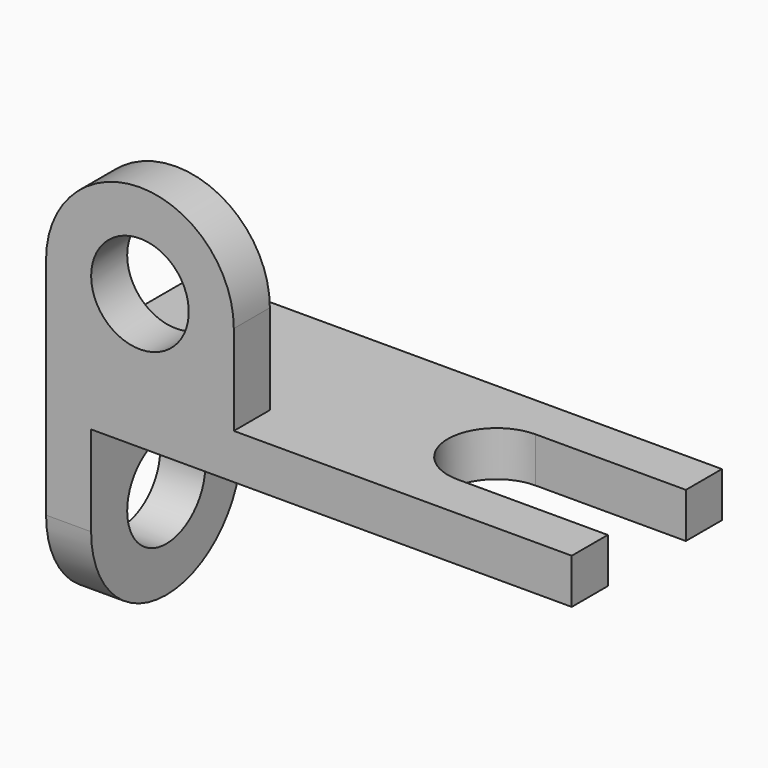
from build123d import *

# Parameters (mm, degrees)
F1_DEPTH = 6
F3_DEPTH = 6
F4_W     = 25
F4_H     = 12
F5_DEPTH = 6
F6_D     = 13


with BuildPart() as f1:
    # F0 (on Top) → F1 (new body)
    with BuildSketch(Plane.XY):
        with BuildLine():
            Line((-32, -12.5), (32, -12.5))
            Line((32, -12.5), (32, -6.5))
            Line((32, -6.5), (12, -6.5))
            ThreePointArc((12, -6.5), (5.5, 0), (12, 6.5))
            Line((12, 6.5), (32, 6.5))
            Line((32, 6.5), (32, 12.5))
            Line((32, 12.5), (-32, 12.5))
            Line((-32, 12.5), (-32, -12.5))
        make_face()
    extrude(amount=F1_DEPTH)

    # F2 (on face) → F3 (join)
    with BuildSketch(Plane(origin=(-32, 0, 0), x_dir=(0, -1, 0), z_dir=(-1, 0, 0))):
        with BuildLine():
            Line((12.5, 6), (-12.5, 6))
            Line((-12.5, 6), (-12.5, -12))
            ThreePointArc((-12.5, -12), (0, 0.5), (12.5, -12))
            Line((12.5, -12), (12.5, 6))
        make_face()
        with BuildLine():
            ThreePointArc((12.5, -12), (0, 0.5), (-12.5, -12))
            Line((-12.5, -12), (-6.5, -12))
            ThreePointArc((-6.5, -12), (0, -5.5), (6.5, -12))
            Line((6.5, -12), (12.5, -12))
        make_face()
        with BuildLine():
            Line((-6.5, -12), (-12.5, -12))
            ThreePointArc((-12.5, -12), (0, -24.5), (12.5, -12))
            Line((12.5, -12), (6.5, -12))
            ThreePointArc((6.5, -12), (0, -18.5), (-6.5, -12))
        make_face()
    extrude(amount=F3_DEPTH)

    # F4 (on face) → F5 (join)
    with BuildSketch(Plane.XZ.offset(12.5)):
        with Locations((-25.5, 12)):
            Rectangle(F4_W, F4_H)
        with BuildLine():
            ThreePointArc((-13, 18), (-25.5, 30.5), (-38, 18))
            Line((-38, 18), (-13, 18))
        make_face()
    extrude(amount=-F5_DEPTH)

    # F6 (through all)
    with Locations(Plane.XZ.offset(12.5)):
        with Locations((-25.5, 18)):
            Hole(F6_D / 2)


solid = f1.part
